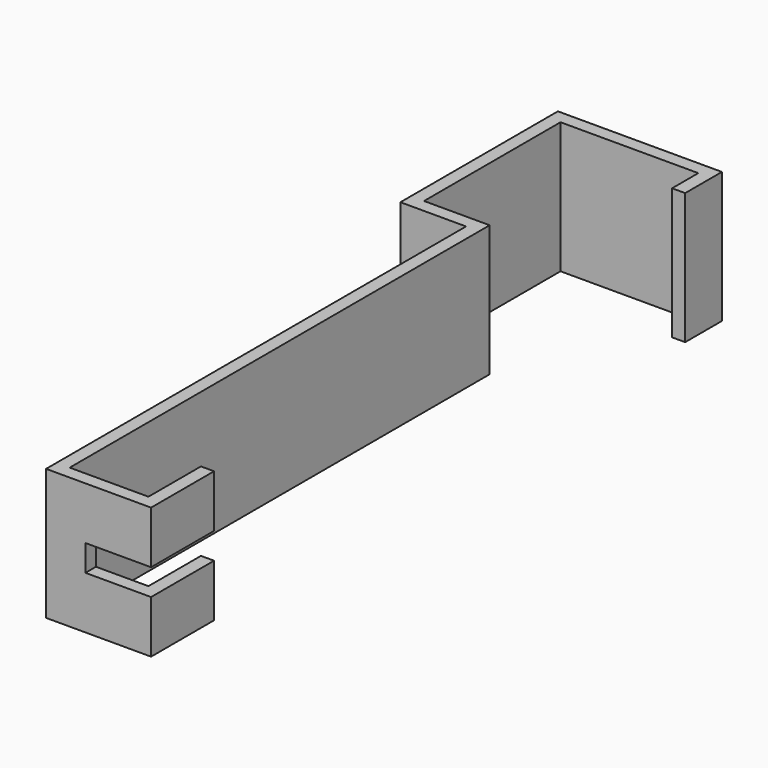
from build123d import *

# Parameters (mm, degrees)
F1_DEPTH = 20
F2_W     = 12
F2_H     = 4
F3_DEPTH = 10


with BuildPart() as f1:
    # F0 (on Top) → F1 (new body)
    with BuildSketch(Plane.XY):
        Polygon((3.162879, 39.699012), (3.162879, 34.699012), (5.162879, 34.699012), (5.162879, 41.699012), (-19.837121, 41.699012), (-19.837121, 11.699012), (-9.837121, 11.699012), (-9.837121, -68.300988), (6.162879, -68.300988), (6.162879, -56.300988), (4.162879, -56.300988), (4.162879, -66.300988), (-7.837121, -66.300988), (-7.837121, 13.699012), (-17.837121, 13.699012), (-17.837121, 39.699012), align=None)
    extrude(amount=F1_DEPTH)

    # F2 (on face) → F3 (cut)
    with BuildSketch(Plane.YZ.offset(6.162879)):
        with Locations((-62.300988, 10)):
            Rectangle(F2_W, F2_H)
    extrude(amount=-F3_DEPTH, mode=Mode.SUBTRACT)


solid = f1.part
